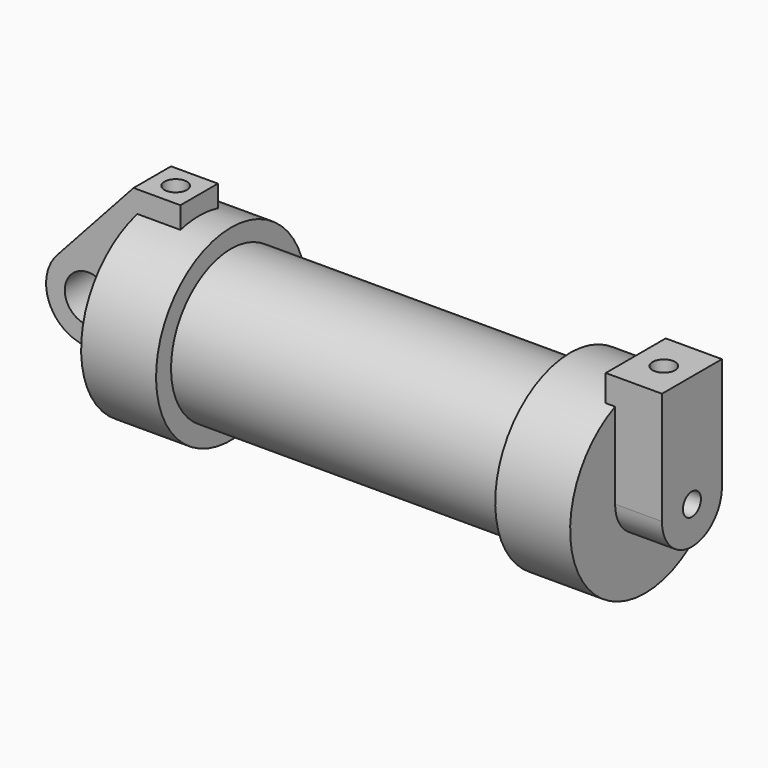
from build123d import *

# Parameters (mm, degrees)
F0_W          = 5.842
F0_H          = 12.7
F0_R          = 3.175
F2_DEPTH      = 3.175
F3_R          = 1.524
F4_DEPTH      = 1.27
F4_DEPTH_BACK = 6.35
F5_R          = 1.524
F6_DEPTH      = 10.414
F7_R          = 1.524
F8_DEPTH      = 17.78
F9_DEPTH      = 56.134


with BuildPart() as f1:
    # F0 (on Front) → F1 (revolve)
    with BuildSketch(Plane.XZ):
        Polygon((5.842, 12.7), (5.842, 0), (66.294, 0), (66.294, 12.7), (56.134, 12.7), (56.134, 10.16), (10.16, 10.16), (10.16, 12.7), align=None)
        with Locations((2.921, 6.35)):
            Rectangle(F0_W, F0_H)
    revolve(axis=Axis((33.147, 0, 0), (-1, 0, 0)))

    # F0 (on Front) → F2 (join, symmetric)
    with BuildSketch(Plane.XZ):
        with Locations((2.921, 6.35)):
            Rectangle(F0_W, F0_H)
        with BuildLine():
            Line((-0.9398, 0), (0, 0))
            Line((0, 0), (0, 12.7))
            Line((0, 12.7), (5.842, 12.7))
            Line((5.842, 12.7), (5.842, 15.24))
            Line((5.842, 15.24), (-0.508, 15.24))
            Line((-0.508, 15.24), (-10.8806298187, 3.8475430269))
            ThreePointArc((-10.8806298187, 3.8475430269), (-4.5919612295, 5.3297205562), (-0.9398, 0))
        make_face()
        with BuildLine():
            ThreePointArc((-8.1826630726, -5.5069827884), (-3.1957909266, -4.5493385486), (-0.9398, 0))
            ThreePointArc((-0.9398, 0), (-4.5919612295, 5.3297205562), (-10.8806298187, 3.8475430269))
            ThreePointArc((-10.8806298187, 3.8475430269), (-12.1459778134, -1.5837270034), (-8.1826630726, -5.5069827884))
        make_face()
        with Locations((-6.6548, 0)):
            Circle(F0_R, mode=Mode.SUBTRACT)
        with BuildLine():
            Line((5.842, 0), (0, 0))
            Line((0, 0), (-0.9398, 0))
            ThreePointArc((-0.9398, 0), (-3.1957909266, -4.5493385486), (-8.1826630726, -5.5069827884))
            Line((-8.1826630726, -5.5069827884), (5.842, -9.398))
            Line((5.842, -9.398), (5.842, 0))
        make_face()
    extrude(amount=F2_DEPTH, both=True)

    # F3 (on face) → F4 (join, two sides)
    with BuildSketch(Plane.YZ.offset(66.294)) as f4_sk:
        with BuildLine():
            ThreePointArc((-5.08, 0), (0, -5.08), (5.08, 0))
            ThreePointArc((5.08, 0), (0, 5.08), (-5.08, 0))
        make_face()
        Circle(F3_R, mode=Mode.SUBTRACT)
        with BuildLine():
            ThreePointArc((-5.08, 0), (0, 5.08), (5.08, 0))
            Line((5.08, 0), (5.08, 15.24))
            Line((5.08, 15.24), (-5.08, 15.24))
            Line((-5.08, 15.24), (-5.08, 0))
        make_face()
    extrude(amount=-F4_DEPTH)
    extrude(f4_sk.sketch, amount=F4_DEPTH_BACK)

    # F5 (on face) → F6 (cut)
    with BuildSketch(Plane.XY.offset(15.24)):
        with Locations((68.834, 0)):
            Circle(F5_R)
    extrude(amount=-F6_DEPTH, mode=Mode.SUBTRACT)

    # F7 (on face) → F8 (cut)
    with BuildSketch(Plane.XY.offset(15.24)):
        with Locations((2.667, 0)):
            Circle(F7_R)
    extrude(amount=-F8_DEPTH, mode=Mode.SUBTRACT)

    # F9 (add, through all): a face of the model
    f9_faces = [f1.faces().sort_by_distance(p)[0] for p in [
        (66.294, 0, 0),
    ]]
    extrude(f9_faces, amount=-F9_DEPTH)


solid = f1.part
